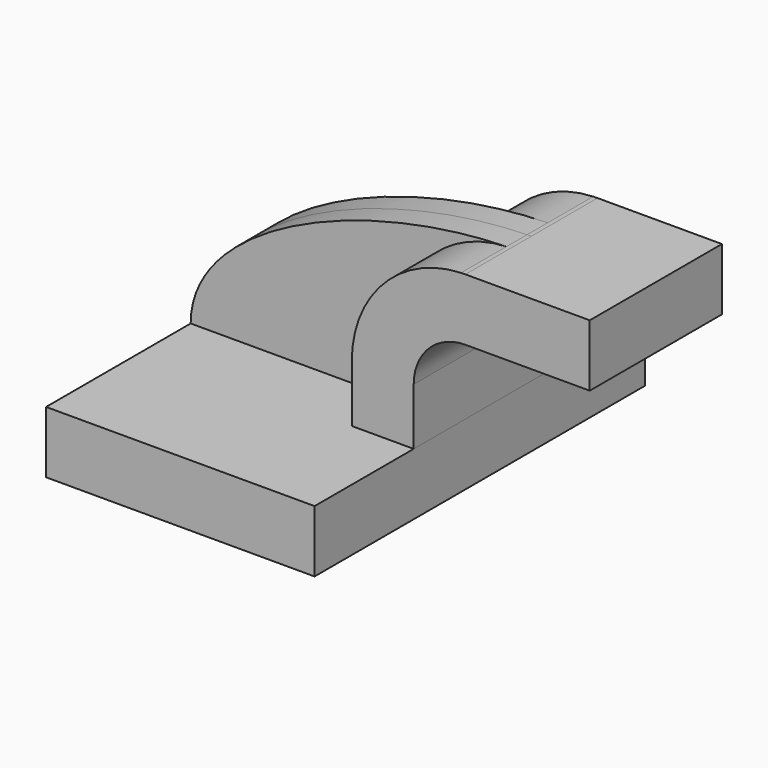
from build123d import *

# Parameters (mm, degrees)
F1_DEPTH = 63.5
F0_W     = 35.068676
F0_H     = 19.05
F2_DEPTH = 25.4
F3_DEPTH = 7.9375


with BuildPart() as f1:
    # F0 (on Front) → F1 (new body, symmetric)
    with BuildSketch(Plane.XZ):
        Polygon((22.225, 9.525), (-41.275, 9.525), (-41.275, -9.525), (41.275, -9.525), (41.275, 9.525), align=None)
    extrude(amount=F1_DEPTH, both=True)


with BuildPart() as f2:
    # F0 (on Front) → F2 (new body, symmetric)
    with BuildSketch(Plane.XZ):
        with BuildLine():
            Line((22.225, 27.0002), (22.225, 9.525))
            Line((22.225, 9.525), (41.275, 9.525))
            Line((41.275, 9.525), (41.275, 27.0002))
            ThreePointArc((41.275, 27.0002), (45.92468, 38.22552), (57.15, 42.8752))
            Line((57.15, 42.8752), (60.325, 42.8752))
            Line((60.325, 42.8752), (60.325, 61.9252))
            Line((60.325, 61.9252), (57.15, 61.9252))
            add(Edge.make_bspline(
                [(55.814037, 61.899639), (56.260076, 61.910244), (56.705417, 61.918769), (57.15, 61.9252)],
                knots=[110.409451, 110.409451, 110.409451, 110.409451, 111.504536, 111.504536, 111.504536, 111.504536], degree=3))
            ThreePointArc((55.814037, 61.899639), (31.986394, 51.218965), (22.225, 27.0002))
        make_face()
        with Locations((77.859338, 52.4002)):
            Rectangle(F0_W, F0_H)
    extrude(amount=F2_DEPTH, both=True)


with BuildPart() as f3:
    # F0 (on Front) → F3 (new body, symmetric)
    with BuildSketch(Plane.XZ):
        with BuildLine():
            add(Edge.make_bspline(
                [(-41.275, 9.525), (-41.235581, 38.616974), (10.843135, 60.830404), (55.814037, 61.899639)],
                knots=[0, 0, 0, 0, 110.409451, 110.409451, 110.409451, 110.409451], degree=3))
            Line((-41.275, 9.525), (22.225, 9.525))
            Line((22.225, 9.525), (22.225, 27.0002))
            ThreePointArc((22.225, 27.0002), (31.986394, 51.218965), (55.814037, 61.899639))
        make_face()
    extrude(amount=F3_DEPTH, both=True)


solid = Compound([f1.part, f2.part, f3.part])
